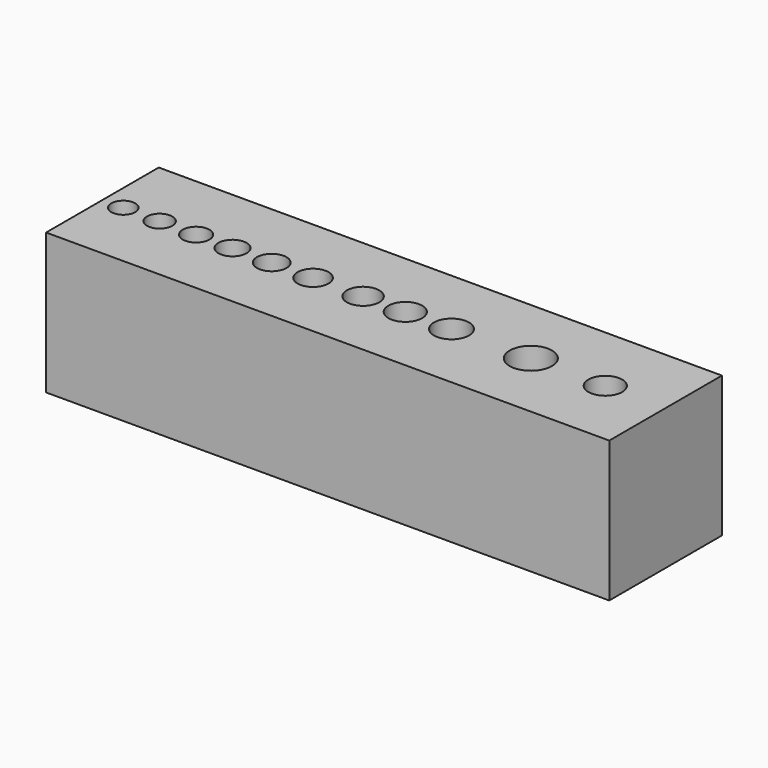
from build123d import *

# Parameters (mm, degrees)
SKETCH_W      = 40
SKETCH_H      = 10
PAD_DEPTH     = 10
SKETCH001_R   = 0.85
HOLE_DEPTH    = 25
SKETCH002_R   = 0.9
HOLE001_DEPTH = 25
SKETCH003_R   = 0.95
HOLE002_DEPTH = 25
SKETCH004_R   = 1
HOLE003_DEPTH = 25
SKETCH005_R   = 1.05
HOLE004_DEPTH = 25
SKETCH006_R   = 1.1
HOLE005_DEPTH = 25
SKETCH007_R   = 1.15
HOLE006_DEPTH = 25
SKETCH008_R   = 1.2
HOLE007_DEPTH = 25
SKETCH009_R   = 1.25
HOLE008_DEPTH = 25
SKETCH010_R   = 1.2
HOLE009_DEPTH = 25
SKETCH011_R   = 1.5
HOLE010_DEPTH = 25


with BuildPart() as part:
    # Sketch → Pad (new body)
    with BuildSketch(Plane.XY):
        Rectangle(SKETCH_W, SKETCH_H)
    extrude(amount=PAD_DEPTH)

    # Sketch001 (on Face6 of Pad) → Hole (cut)
    with BuildSketch(Plane.XY.offset(10)):
        with Locations((-18.51713, 0)):
            Circle(SKETCH001_R)
    extrude(amount=-HOLE_DEPTH, mode=Mode.SUBTRACT)

    # Sketch002 (on Face6 of Pad) → Hole001 (cut)
    with BuildSketch(Plane.XY.offset(10)):
        with Locations((-15.935542, 0)):
            Circle(SKETCH002_R)
    extrude(amount=-HOLE001_DEPTH, mode=Mode.SUBTRACT)

    # Sketch003 (on Face6 of Pad) → Hole002 (cut)
    with BuildSketch(Plane.XY.offset(10)):
        with Locations((-13.345876, 0)):
            Circle(SKETCH003_R)
    extrude(amount=-HOLE002_DEPTH, mode=Mode.SUBTRACT)

    # Sketch004 (on Face6 of Pad) → Hole003 (cut)
    with BuildSketch(Plane.XY.offset(10)):
        with Locations((-10.761359, 0)):
            Circle(SKETCH004_R)
    extrude(amount=-HOLE003_DEPTH, mode=Mode.SUBTRACT)

    # Sketch005 (on Face6 of Pad) → Hole004 (cut)
    with BuildSketch(Plane.XY.offset(10)):
        with Locations((-7.973536, 0)):
            Circle(SKETCH005_R)
    extrude(amount=-HOLE004_DEPTH, mode=Mode.SUBTRACT)

    # Sketch006 (on Face6 of Pad) → Hole005 (cut)
    with BuildSketch(Plane.XY.offset(10)):
        with Locations((-5.038025, 0)):
            Circle(SKETCH006_R)
    extrude(amount=-HOLE005_DEPTH, mode=Mode.SUBTRACT)

    # Sketch007 (on Face6 of Pad) → Hole006 (cut)
    with BuildSketch(Plane.XY.offset(10)):
        with Locations((-1.486799, 0)):
            Circle(SKETCH007_R)
    extrude(amount=-HOLE006_DEPTH, mode=Mode.SUBTRACT)

    # Sketch008 (on Face6 of Pad) → Hole007 (cut)
    with BuildSketch(Plane.XY.offset(10)):
        with Locations((1.512776, 0)):
            Circle(SKETCH008_R)
    extrude(amount=-HOLE007_DEPTH, mode=Mode.SUBTRACT)

    # Sketch009 (on Face6 of Pad) → Hole008 (cut)
    with BuildSketch(Plane.XY.offset(10)):
        with Locations((4.793622, 0)):
            Circle(SKETCH009_R)
    extrude(amount=-HOLE008_DEPTH, mode=Mode.SUBTRACT)

    # Sketch010 (on Face6 of Pad) → Hole009 (cut)
    with BuildSketch(Plane.XY.offset(10)):
        with Locations((15.717695, 0)):
            Circle(SKETCH010_R)
    extrude(amount=-HOLE009_DEPTH, mode=Mode.SUBTRACT)

    # Sketch011 (on Face5 of Hole009) → Hole010 (cut)
    with BuildSketch(Plane.XY.offset(10)):
        with Locations((10.428464, 0)):
            Circle(SKETCH011_R)
    extrude(amount=-HOLE010_DEPTH, mode=Mode.SUBTRACT)


solid = part.part
